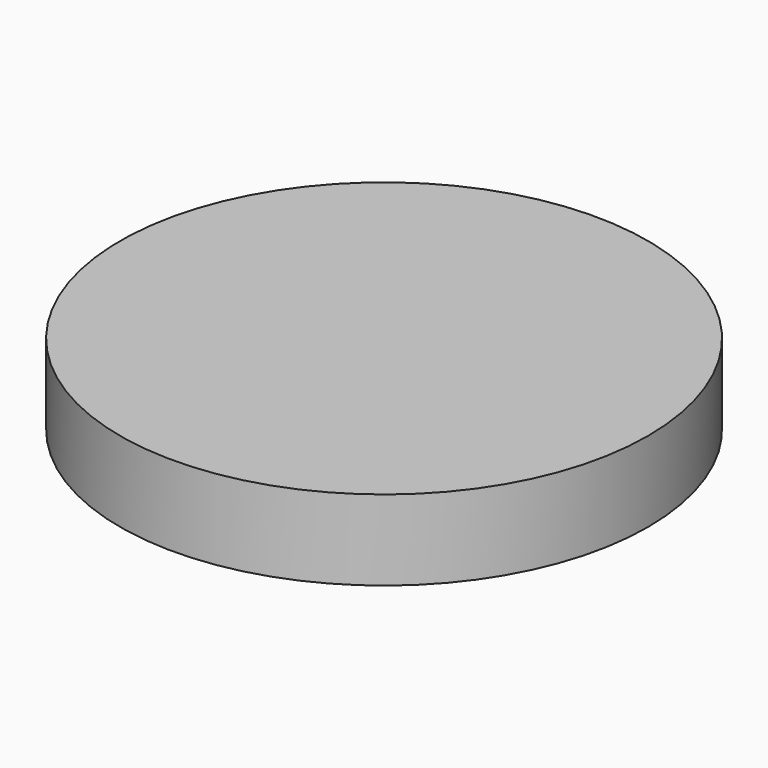
from build123d import *

# Parameters (mm, degrees)
F0_R     = 2500
F1_DEPTH = 760


with BuildPart() as f1:
    # F0 (on Top) → F1 (new body)
    with BuildSketch(Plane.XY):
        with Locations((14.96976, 19.687502)):
            Circle(F0_R)
    extrude(amount=-F1_DEPTH)


solid = f1.part
